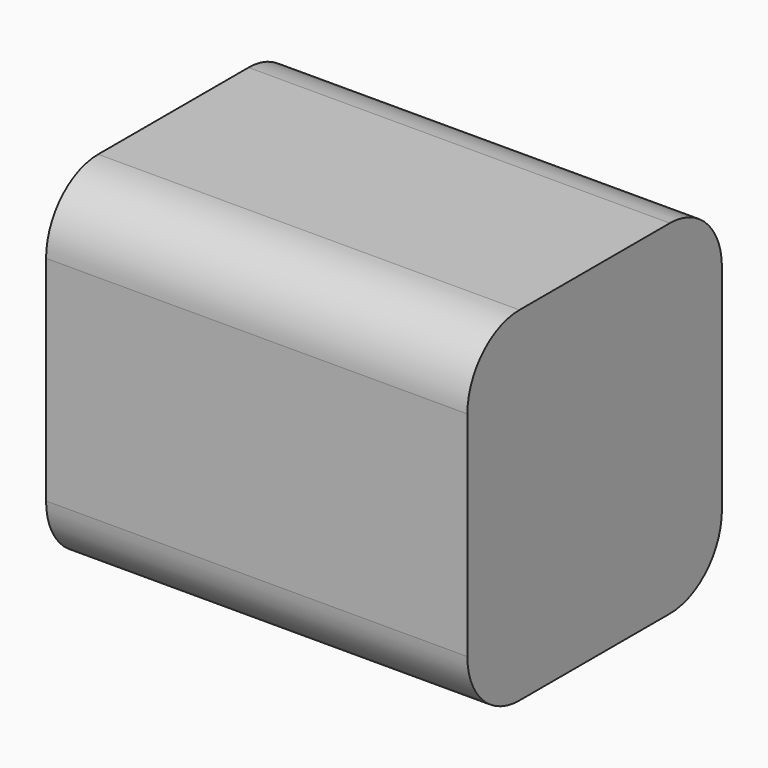
from build123d import *

# Parameters (mm, degrees)
F0_W     = 82.204894
F0_H     = 67.080438
F1_DEPTH = 62.079741
F2_R     = 12.7
F3_R     = 12.7
F4_R     = 12.7


with BuildPart() as f1:
    # F0 (on Front) → F1 (new body)
    with BuildSketch(Plane.XZ):
        Rectangle(F0_W, F0_H)
    extrude(amount=F1_DEPTH)

    # F2
    f2_edges = [f1.edges().sort_by_distance(p)[0] for p in [
        (0, -62.079741, 33.540219),
    ]]
    fillet(f2_edges, radius=F2_R)

    # F3
    f3_edges = [f1.edges().sort_by_distance(p)[0] for p in [
        (0, -62.079741, -33.540219),
    ]]
    fillet(f3_edges, radius=F3_R)

    # F4
    f4_edges = [f1.edges().sort_by_distance(p)[0] for p in [
        (0, 0, -33.540219),
        (0, 0, 33.540219),
    ]]
    fillet(f4_edges, radius=F4_R)


solid = f1.part
